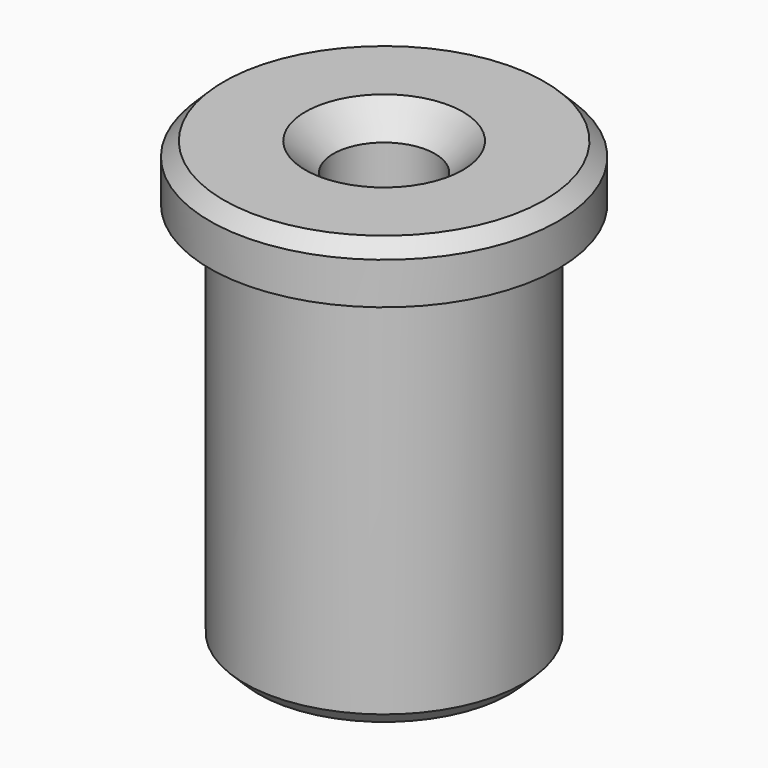
from build123d import *

# Parameters (mm, degrees)
F0_R     = 6.25
F0_R_2   = 1.825
F1_DEPTH = 16
F2_SIZE  = 1
F3_R     = 6.25
F3_R_2   = 5
F4_DEPTH = 14
F5_SIZE  = 0.5


with BuildPart() as f1:
    # F0 (on Top) → F1 (new body)
    with BuildSketch(Plane.XY):
        Circle(F0_R)
        Circle(F0_R_2, mode=Mode.SUBTRACT)
    extrude(amount=-F1_DEPTH)

    # F2
    f2_edges = [f1.edges().sort_by_distance(p)[0] for p in [
        (-1.825, 0, 0),
    ]]
    chamfer(f2_edges, length=F2_SIZE)

    # F3 (on face) → F4 (cut)
    with BuildSketch(Plane(origin=(0, 0, -16), x_dir=(1, 0, 0), z_dir=(0, 0, -1))):
        Circle(F3_R)
        Circle(F3_R_2, mode=Mode.SUBTRACT)
    extrude(amount=-F4_DEPTH, mode=Mode.SUBTRACT)

    # F5
    f5_edges = [f1.edges().sort_by_distance(p)[0] for p in [
        (-5, 0, -16),
        (-1.825, 0, -16),
        (-6.25, 0, 0),
    ]]
    chamfer(f5_edges, length=F5_SIZE)


solid = f1.part
